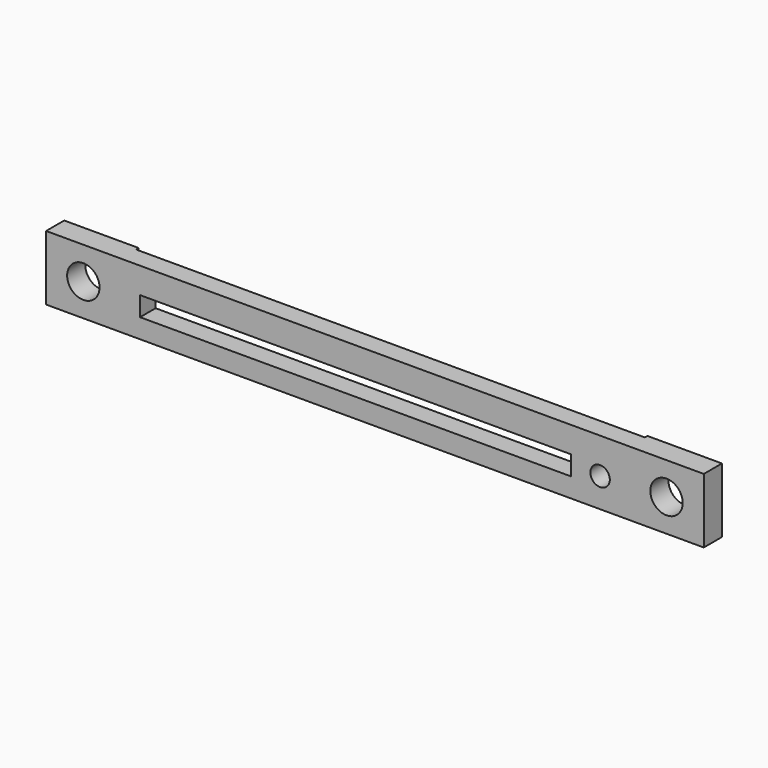
from build123d import *

# Parameters (mm, degrees)
F0_W     = 101.5
F0_H     = 10
F0_W_2   = 66.5
F0_H_2   = 3
F0_R     = 1.5
F0_R_2   = 2.5
F1_DEPTH = 3.5
F2_W     = 78.5
F2_H     = 10
F3_DEPTH = 0.5


with BuildPart() as f1:
    # F0 (on Front) → F1 (new body)
    with BuildSketch(Plane.XZ):
        Rectangle(F0_W, F0_H)
        with Locations((-3, -0.5)):
            Rectangle(F0_W_2, F0_H_2, mode=Mode.SUBTRACT)
        with Locations((34.75, -0.5)):
            Circle(F0_R, mode=Mode.SUBTRACT)
        with Locations((-45, 0)):
            Circle(F0_R_2, mode=Mode.SUBTRACT)
        with Locations((45, 0)):
            Circle(F0_R_2, mode=Mode.SUBTRACT)
    extrude(amount=F1_DEPTH)

    # F2 (on face) → F3 (cut)
    with BuildSketch(Plane(origin=(0, 0, 0), x_dir=(-1, 0, 0), z_dir=(0, 1, 0))):
        Rectangle(F2_W, F2_H)
    extrude(amount=-F3_DEPTH, mode=Mode.SUBTRACT)


solid = f1.part
